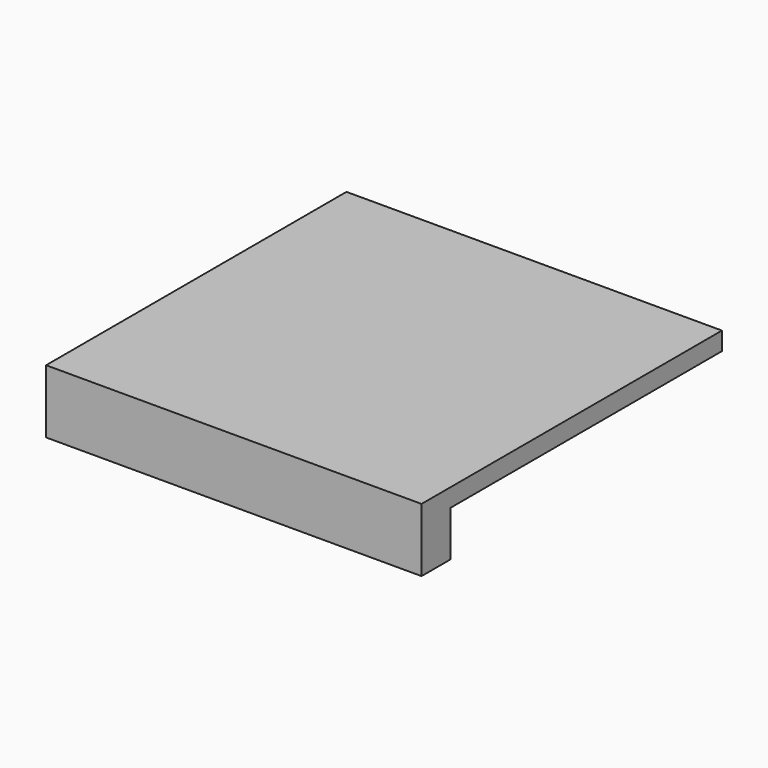
from build123d import *

# Parameters (mm, degrees)
F1_DEPTH = 1.2
F2_DEPTH = 3


with BuildPart() as f1:
    # F0 (on Top) → F1 (new body)
    with BuildSketch(Plane.XY):
        Polygon((-10, 12.4), (-12.4, 12.4), (-12.4, -12.4), (12.4, -12.4), (12.4, -10), (10, -10), (-10, -10), (-10, 10), align=None)
        Polygon((12.4, 12.4), (-10, 12.4), (-10, 10), (-10, -10), (10, -10), (12.4, -10), align=None)
    extrude(amount=F1_DEPTH)

    # F0 (on Top) → F2 (join)
    with BuildSketch(Plane.XY):
        Polygon((-10, 12.4), (-12.4, 12.4), (-12.4, -12.4), (12.4, -12.4), (12.4, -10), (10, -10), (-10, -10), (-10, 10), align=None)
    extrude(amount=-F2_DEPTH)


solid = f1.part
